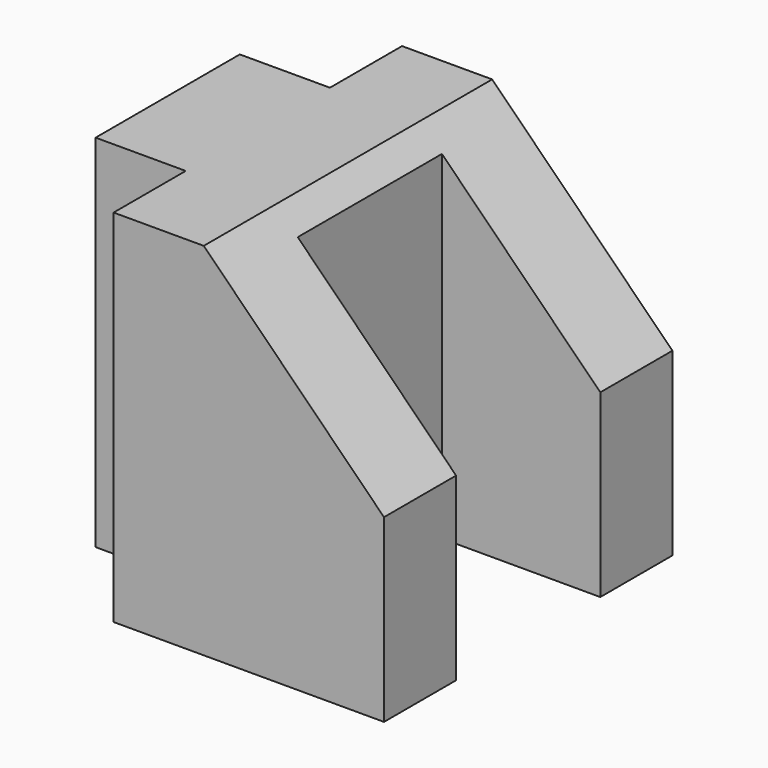
from build123d import *

# Parameters (mm, degrees)
F2_DEPTH = 50.8
F3_DEPTH = 50.801


with BuildPart() as f2:
    # F1 (on Top) → F2 (new body)
    with BuildSketch(Plane.XY):
        Polygon((12.7, 38.1), (0, 38.1), (0, 12.7), (12.7, 12.7), (12.7, 0), (25.4, 0), (25.4, 50.8), (12.7, 50.8), align=None)
        Polygon((50.8, 50.8), (25.4, 50.8), (25.4, 0), (50.8, 0), (50.8, 12.7), (28.482521, 12.7), (28.482521, 38.1), (50.8, 38.1), align=None)
    extrude(amount=F2_DEPTH)

    # F0 (on Front) → F3 (cut, through all)
    with BuildSketch(Plane.XZ):
        Polygon((50.8, 50.8), (25.4, 50.8), (50.8, 25.4), align=None)
    extrude(amount=-F3_DEPTH, mode=Mode.SUBTRACT)


solid = f2.part
